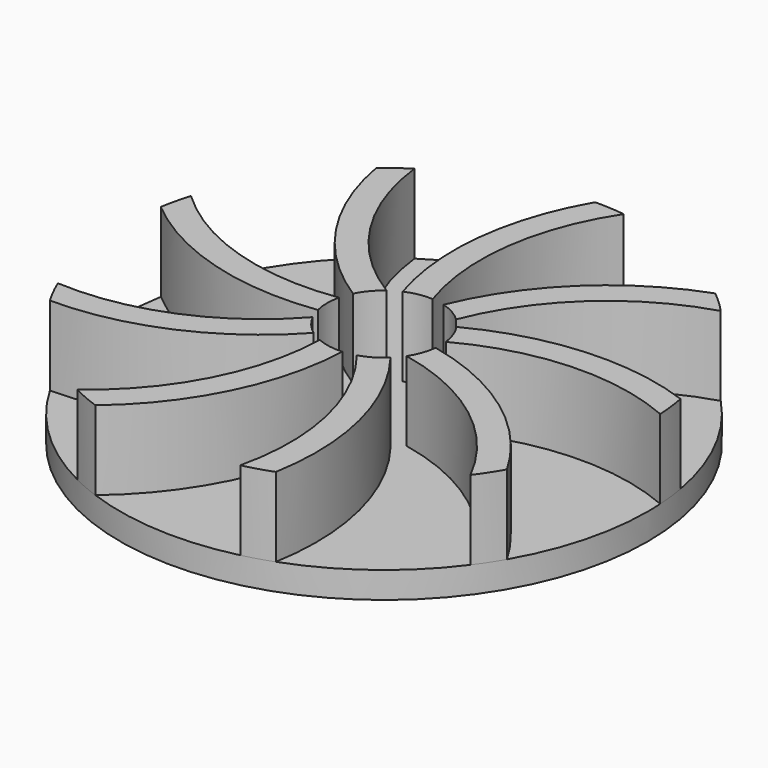
from build123d import *

# Parameters (mm, degrees)
SKETCH_R           = 50
PAD_DEPTH          = 5
PAD001_DEPTH       = 15
POLARPATTERN_COUNT = 9


with BuildPart() as part:
    # Sketch → Pad (new body)
    with BuildSketch(Plane.XY):
        Circle(SKETCH_R)
    extrude(amount=-PAD_DEPTH)

    # Sketch001 → Pad001 (join)
    with BuildSketch(Plane.XY):
        with BuildLine():
            ThreePointArc((43.30127, -25), (29.522789, -9.6465), (10.718625, -1.162401))
            ThreePointArc((9.015743, -5.912401), (10.148987, -3.638428), (10.718625, -1.162401))
            ThreePointArc((40.186285, -29.75), (27.336197, -14.254618), (9.015743, -5.912401))
            ThreePointArc((40.186285, -29.75), (41.829839, -27.431438), (43.30127, -25))
        make_face()
    pad001 = extrude(amount=PAD001_DEPTH)

    # PolarPattern: Pad001 ×9 about axis
    polarpattern_axis = Axis((0, 0, 0), (0, 0, 1))
    for i in range(1, POLARPATTERN_COUNT):
        add(pad001.rotate(polarpattern_axis, i * 360 / POLARPATTERN_COUNT))


solid = part.part
